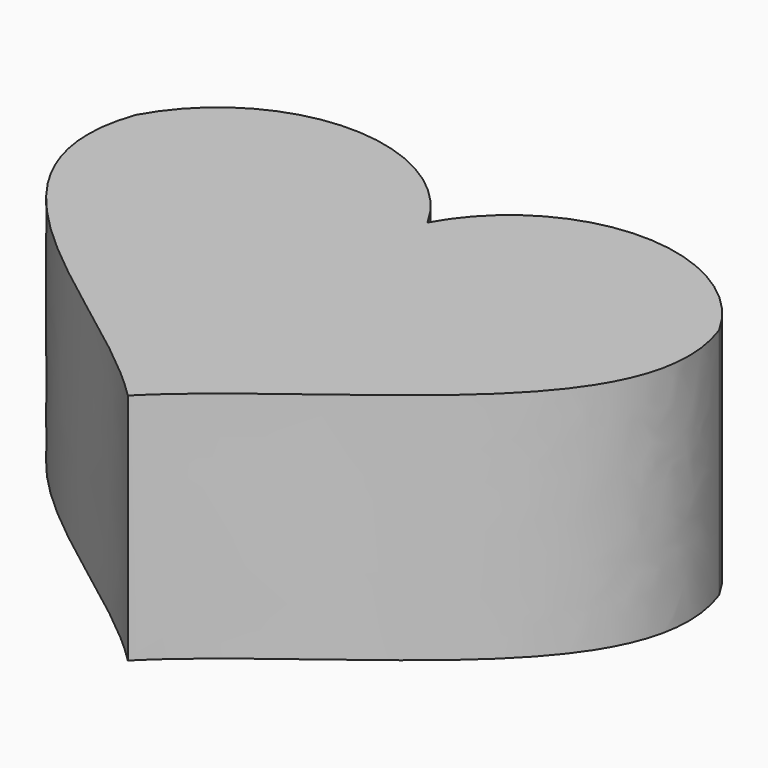
from build123d import *

# Parameters (mm, degrees)
F1_DEPTH = 25


with BuildPart() as f1:
    # F0 (on Top) → F1 (new body)
    with BuildSketch(Plane.XY):
        with BuildLine():
            ThreePointArc((31.236691, 0), (15.618346, 9.251329), (0, 0))
            ThreePointArc((0, 0), (-15.618346, 9.251329), (-31.236691, 0))
            add(Edge.make_bspline(
                [(-31.236691, 0), (-37.353158, -17.197197), (-12.122736, -27.901011), (0, -40.133942)],
                knots=[0, 0, 0, 0, 50.857292, 50.857292, 50.857292, 50.857292], degree=3))
            add(Edge.make_bspline(
                [(31.236691, 0), (37.353158, -17.197197), (12.122736, -27.901011), (0, -40.133942)],
                knots=[0, 0, 0, 0, 50.857292, 50.857292, 50.857292, 50.857292], degree=3))
        make_face()
    extrude(amount=F1_DEPTH)


solid = f1.part
